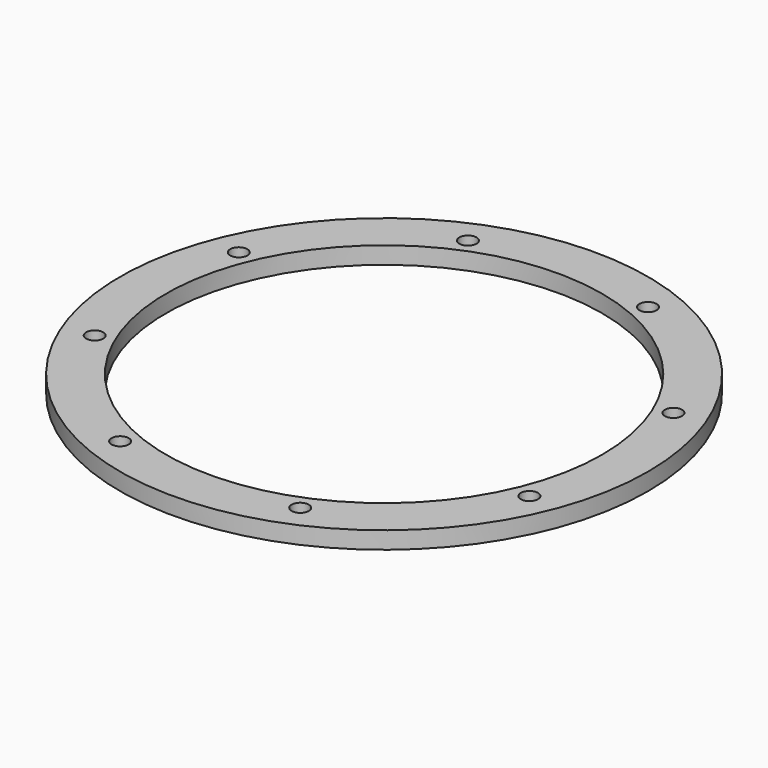
from build123d import *

# Parameters (mm, degrees)
CYLINDER412_R               = 1.5
CYLINDER412_DEPTH           = 60
CYLINDER410_R               = 1.5
CYLINDER410_DEPTH           = 60
CYLINDER410_PLACEMENT_ANGLE = 135
CYLINDER408_R               = 1.5
CYLINDER408_DEPTH           = 60
CYLINDER411_R               = 1.5
CYLINDER411_DEPTH           = 60
CYLINDER411_PLACEMENT_ANGLE = 225
CYLINDER414_R               = 1.5
CYLINDER414_DEPTH           = 60
CYLINDER407_R               = 1.5
CYLINDER407_DEPTH           = 60
CYLINDER407_PLACEMENT_ANGLE = 45
CYLINDER413_R               = 1.5
CYLINDER413_DEPTH           = 60
CYLINDER409_R               = 1.5
CYLINDER409_DEPTH           = 60
CYLINDER409_PLACEMENT_ANGLE = 45
COMPOUND307_PLACEMENT_ANGLE = 22.5
TUBE036_R                   = 46
TUBE036_R_2                 = 38
TUBE036_DEPTH               = 3


with BuildPart() as obj1:
    # Cylinder412 → Cylinder412 (new body)
    with BuildSketch(Plane(origin=(0, 41, -54), x_dir=(0, 1, 0), z_dir=(0, 0, 1))):
        Circle(CYLINDER412_R)
    extrude(amount=CYLINDER412_DEPTH)


with BuildPart() as obj2:
    # Cylinder410 → Cylinder410 (new body)
    with BuildSketch(Plane.XY):
        Circle(CYLINDER410_R)
    extrude(amount=CYLINDER410_DEPTH)


with BuildPart() as obj2_1:
    # Cylinder410 placement: moved
    add(obj2.part.moved(Location((-28.991378, 28.991378, -54))).rotate(Axis((-28.991378, 28.991378, -54), (0, 0, 1)), CYLINDER410_PLACEMENT_ANGLE))


with BuildPart() as obj3:
    # Cylinder408 → Cylinder408 (new body)
    with BuildSketch(Plane(origin=(-41, 0, -54), x_dir=(-1, 0, 0), z_dir=(0, 0, 1))):
        Circle(CYLINDER408_R)
    extrude(amount=CYLINDER408_DEPTH)


with BuildPart() as obj4:
    # Cylinder411 → Cylinder411 (new body)
    with BuildSketch(Plane.XY):
        Circle(CYLINDER411_R)
    extrude(amount=CYLINDER411_DEPTH)


with BuildPart() as obj4_1:
    # Cylinder411 placement: moved
    add(obj4.part.moved(Location((-28.991378, -28.991378, -54))).rotate(Axis((-28.991378, -28.991378, -54), (0, 0, 1)), CYLINDER411_PLACEMENT_ANGLE))


with BuildPart() as obj5:
    # Cylinder414 → Cylinder414 (new body)
    with BuildSketch(Plane(origin=(0, -41, -54), x_dir=(0, -1, 0), z_dir=(0, 0, 1))):
        Circle(CYLINDER414_R)
    extrude(amount=CYLINDER414_DEPTH)


with BuildPart() as obj6:
    # Cylinder407 → Cylinder407 (new body)
    with BuildSketch(Plane.XY):
        Circle(CYLINDER407_R)
    extrude(amount=CYLINDER407_DEPTH)


with BuildPart() as obj6_1:
    # Cylinder407 placement: moved
    add(obj6.part.moved(Location((28.991378, -28.991378, -54))).rotate(Axis((28.991378, -28.991378, -54), (0, 0, -1)), CYLINDER407_PLACEMENT_ANGLE))


with BuildPart() as obj7:
    # Cylinder413 → Cylinder413 (new body)
    with BuildSketch(Plane(origin=(41, 0, -54), x_dir=(1, 0, 0), z_dir=(0, 0, 1))):
        Circle(CYLINDER413_R)
    extrude(amount=CYLINDER413_DEPTH)


with BuildPart() as compound307:
    # Cylinder409 → Cylinder409 (new body)
    with BuildSketch(Plane.XY):
        Circle(CYLINDER409_R)
    extrude(amount=CYLINDER409_DEPTH)


with BuildPart() as compound307_1:
    # Cylinder409 placement: moved
    add(compound307.part.moved(Location((28.991378, 28.991378, -54))).rotate(Axis((28.991378, 28.991378, -54), (0, 0, 1)), CYLINDER409_PLACEMENT_ANGLE))

    # Compound307: union obj1, obj2, obj3, obj4, obj5, obj6, obj7
    add(obj1.part)
    add(obj2_1.part)
    add(obj3.part)
    add(obj4_1.part)
    add(obj5.part)
    add(obj6_1.part)
    add(obj7.part)


with BuildPart() as compound307_2:
    # Compound307 placement: moved
    add(compound307_1.part.rotate(Axis((0, 0, 0), (0, 0, 1)), COMPOUND307_PLACEMENT_ANGLE))


with BuildPart() as j_midi_motor_washer:
    # Tube036 → Tube036 (new body)
    with BuildSketch(Plane.XY.offset(-11)):
        Circle(TUBE036_R)
        Circle(TUBE036_R_2, mode=Mode.SUBTRACT)
    extrude(amount=TUBE036_DEPTH)

    # Cut162: cut Compound307
    add(compound307_2.part, mode=Mode.SUBTRACT)


solid = j_midi_motor_washer.part
